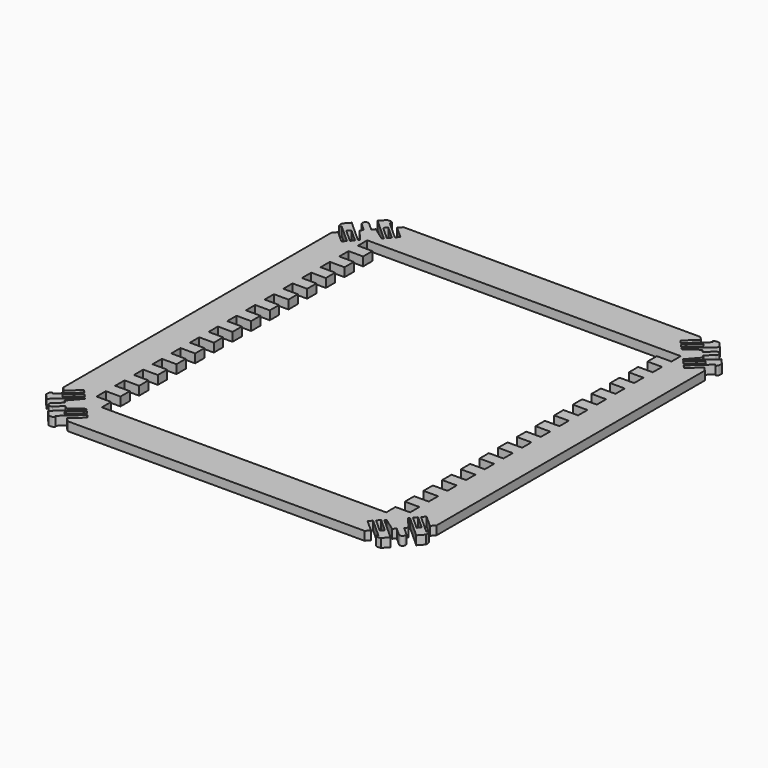
from build123d import *

# Parameters (mm, degrees)
F1_DEPTH = 3
F4_W     = 107.5
F4_H     = 120
F5_DEPTH = 3
F6_W     = 5
F6_H     = 4
F7_DEPTH = 3


with BuildPart() as f1:
    # F0 (on Top) → F1 (new body)
    with BuildSketch(Plane.XY):
        with BuildLine():
            Line((64, 0), (64, 57.4883735822))
            Line((64, 57.4883735822), (62.8046343071, 58.8159616805))
            Line((62.8046343071, 58.8159616805), (58.717337767, 55.1357433455))
            Line((58.717337767, 55.1357433455), (57.7064563618, 56.2584408851))
            Line((57.7064563618, 56.2584408851), (64.0975018609, 62.0129640998))
            add(Edge.make_bspline(
                [(64.0975018609, 62.0129640998), (64.2630784179, 61.8345190752), (64.7737767246, 61.0031142554), (65.2331012875, 62.6495131608), (65.0931958217, 63.4477440608)],
                knots=[0, 0, 0, 0, 0.3763533344, 1, 1, 1, 1], degree=3))
            Line((65.0931958217, 63.4477440608), (63.3534562452, 65.379920607))
            Line((63.3534562452, 65.379920607), (55.6990645427, 58.4878753615))
            Line((55.6990645427, 58.4878753615), (55.3495648702, 59.0087018934))
            Line((55.3495648702, 59.0087018934), (58.971833562, 63.1474419824))
            Line((58.971833562, 63.1474419824), (58.1506918082, 64.0594122905))
            Line((58.1506918082, 64.0594122905), (60.7529463893, 66.4024928396))
            ThreePointArc((60.7529463893, 66.4024928396), (60.8269606084, 67.8147682715), (59.4146851766, 67.8887824906))
            Line((59.4146851766, 67.8887824906), (56.8124305955, 65.5457019415))
            Line((56.8124305955, 65.5457019415), (55.9912888418, 66.4576722496))
            Line((55.9912888418, 66.4576722496), (51.4965910242, 63.2878628661))
            Line((51.4965910242, 63.2878628661), (51.0151502982, 63.6898891399))
            Line((51.0151502982, 63.6898891399), (58.6695420007, 70.5819343854))
            Line((58.6695420007, 70.5819343854), (56.9298024241, 72.5141109316))
            add(Edge.make_bspline(
                [(55.3988039783, 71.673846831), (55.2386439572, 71.8571689265), (54.4651761692, 72.4519750426), (56.1505684198, 72.7366878299), (56.9298024241, 72.5141109316)],
                knots=[0, 0, 0, 0, 0.3763533344, 1, 1, 1, 1], degree=3))
            Line((55.3988039783, 71.673846831), (49.0077584792, 65.9193236163))
            Line((49.0077584792, 65.9193236163), (47.996877074, 67.0420211559))
            Line((47.996877074, 67.0420211559), (52.0841736141, 70.7222394909))
            Line((52.0841736141, 70.7222394909), (50.9336728841, 72))
            Line((50.9336728841, 72), (0, 72))
            Line((0, 72), (0, 0))
            Line((0, 0), (64, 0))
        make_face()
        Polygon((61.6300208296, 60.8677403836), (57.1711518767, 56.8529567455), (56.2343690278, 57.8933595012), (60.6932379807, 61.9081431393), align=None, mode=Mode.SUBTRACT)
        Polygon((50.4798458131, 64.2844050003), (49.5430629642, 65.3248077559), (54.0019319171, 69.3395913941), (54.938714766, 68.2991886384), align=None, mode=Mode.SUBTRACT)
    extrude(amount=F1_DEPTH)

    # F2: F1 across face


with BuildPart() as f1_1:
    add(f1.part)
    add(f1.part.mirror(Plane(origin=(0, 36, 1.5), x_dir=(0, -1, 0), z_dir=(-1, 0, 0))))

    # F3: F1 across face


with BuildPart() as f1_2:
    add(f1_1.part)
    add(f1_1.part.mirror(Plane(origin=(0, 0, 1.5), x_dir=(1, 0, 0), z_dir=(0, -1, 0))))

    # F4 (on face) → F5 (cut)
    with BuildSketch(Plane.XY.offset(3)):
        Rectangle(F4_W, F4_H)
    extrude(amount=-F5_DEPTH, mode=Mode.SUBTRACT)

    # F6 (on face) → F7 (join)
    with BuildSketch(Plane.XY.offset(3)):
        with Locations((-51.25, -58)):
            Rectangle(F6_W, F6_H)
        with Locations((-51.25, -50)):
            Rectangle(F6_W, F6_H)
        with Locations((-51.25, -42)):
            Rectangle(F6_W, F6_H)
        with Locations((-51.25, -34)):
            Rectangle(F6_W, F6_H)
        with Locations((-51.25, -26)):
            Rectangle(F6_W, F6_H)
        with Locations((-51.25, -18)):
            Rectangle(F6_W, F6_H)
        with Locations((-51.25, -10)):
            Rectangle(F6_W, F6_H)
        with Locations((-51.25, -2)):
            Rectangle(F6_W, F6_H)
        with Locations((-51.25, 6)):
            Rectangle(F6_W, F6_H)
        with Locations((-51.25, 14)):
            Rectangle(F6_W, F6_H)
        with Locations((-51.25, 22)):
            Rectangle(F6_W, F6_H)
        with Locations((-51.25, 30)):
            Rectangle(F6_W, F6_H)
        with Locations((-51.25, 38)):
            Rectangle(F6_W, F6_H)
        with Locations((-51.25, 46)):
            Rectangle(F6_W, F6_H)
        with Locations((-51.25, 54)):
            Rectangle(F6_W, F6_H)
        with Locations((51.25, -58)):
            Rectangle(F6_W, F6_H)
        with Locations((51.25, -50)):
            Rectangle(F6_W, F6_H)
        with Locations((51.25, -42)):
            Rectangle(F6_W, F6_H)
        with Locations((51.25, -34)):
            Rectangle(F6_W, F6_H)
        with Locations((51.25, -26)):
            Rectangle(F6_W, F6_H)
        with Locations((51.25, -18)):
            Rectangle(F6_W, F6_H)
        with Locations((51.25, -10)):
            Rectangle(F6_W, F6_H)
        with Locations((51.25, -2)):
            Rectangle(F6_W, F6_H)
        with Locations((51.25, 6)):
            Rectangle(F6_W, F6_H)
        with Locations((51.25, 14)):
            Rectangle(F6_W, F6_H)
        with Locations((51.25, 22)):
            Rectangle(F6_W, F6_H)
        with Locations((51.25, 30)):
            Rectangle(F6_W, F6_H)
        with Locations((51.25, 38)):
            Rectangle(F6_W, F6_H)
        with Locations((51.25, 46)):
            Rectangle(F6_W, F6_H)
        with Locations((51.25, 54)):
            Rectangle(F6_W, F6_H)
    extrude(amount=-F7_DEPTH)


solid = f1_2.part
